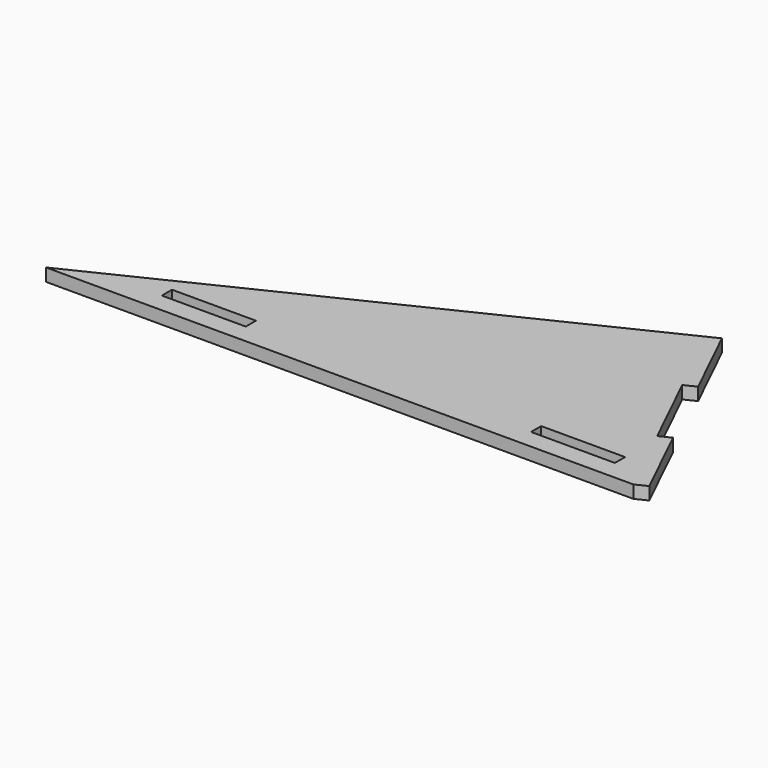
from build123d import *

# Parameters (mm, degrees)
F0_W     = 127
F0_H     = 19.2532
F1_DEPTH = 19.2532


with BuildPart() as f1:
    # F0 (on Top) → F1 (new body)
    with BuildSketch(Plane.XY):
        Polygon((21.142638, 349.013485), (-698.620576, 0), (190.379424, 0), (134.967883, 114.274062), (76.554179, 234.739423), align=None)
        with Locations((-483.331512, 38.926631)):
            Rectangle(F0_W, F0_H, mode=Mode.SUBTRACT)
        with Locations((75.468488, 38.926631)):
            Rectangle(F0_W, F0_H, mode=Mode.SUBTRACT)
        Polygon((38.466586, 357.413874), (21.142638, 349.013485), (76.554179, 234.739423), (93.878127, 243.139813), align=None)
        Polygon((134.967883, 114.274062), (190.379424, 0), (207.703371, 8.40039), (152.291831, 122.674451), align=None)
    extrude(amount=-F1_DEPTH)


solid = f1.part
